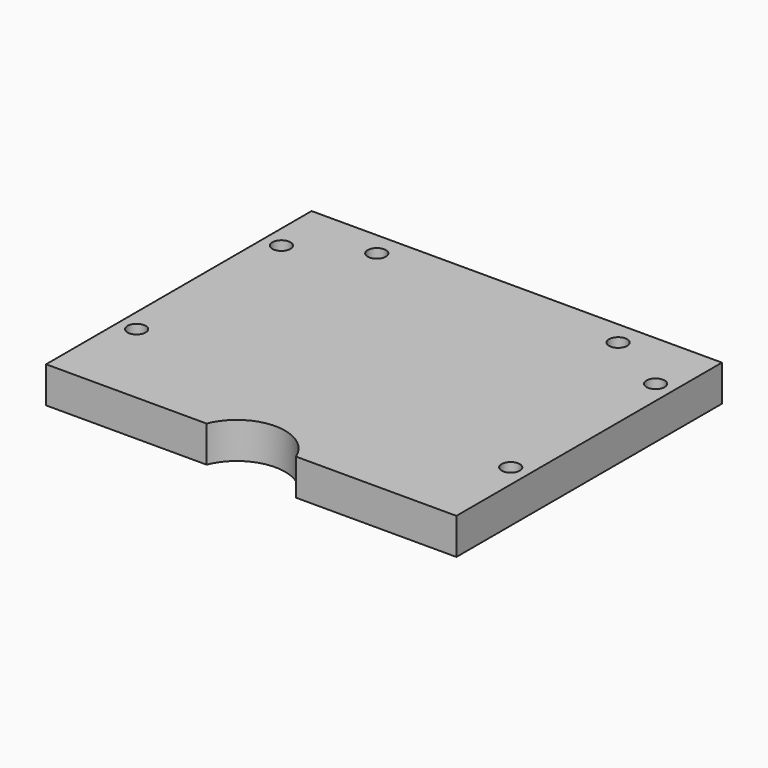
from build123d import *

# Parameters (mm, degrees)
CYLINDER2051_R               = 1.5
CYLINDER2051_DEPTH           = 50
CYLINDER2051_PLACEMENT_ANGLE = 45
CYLINDER2052_R               = 1.5
CYLINDER2052_DEPTH           = 50
CYLINDER2052_PLACEMENT_ANGLE = 45
CYLINDER2050_R               = 1.5
CYLINDER2050_DEPTH           = 50
CYLINDER2050_PLACEMENT_ANGLE = 45
CYLINDER2049_R               = 1.5
CYLINDER2049_DEPTH           = 50
CYLINDER2049_PLACEMENT_ANGLE = 45
CYLINDER2062_R               = 1.5
CYLINDER2062_DEPTH           = 50
CYLINDER2062_PLACEMENT_ANGLE = 45
CYLINDER2069_R               = 1.5
CYLINDER2069_DEPTH           = 50
CYLINDER2069_PLACEMENT_ANGLE = 45
CYLINDER2085_R               = 3
CYLINDER2085_DEPTH           = 3
CYLINDER2085_PLACEMENT_ANGLE = 45
CYLINDER2081_R               = 3
CYLINDER2081_DEPTH           = 3
CYLINDER2081_PLACEMENT_ANGLE = 45
CYLINDER2091_R               = 3
CYLINDER2091_DEPTH           = 3
CYLINDER2091_PLACEMENT_ANGLE = 45
CYLINDER2067_R               = 3
CYLINDER2067_DEPTH           = 3
CYLINDER2067_PLACEMENT_ANGLE = 45
CYLINDER2080_R               = 3
CYLINDER2080_DEPTH           = 3
CYLINDER2080_PLACEMENT_ANGLE = 45
CYLINDER2088_R               = 3
CYLINDER2088_DEPTH           = 3
CYLINDER2088_PLACEMENT_ANGLE = 45
CYLINDER2061_R               = 8
CYLINDER2061_DEPTH           = 6
BOX802_W                     = 68
BOX802_H                     = 55
BOX802_DEPTH                 = 6


with BuildPart() as obj1:
    # Cylinder2051 → Cylinder2051 (new body)
    with BuildSketch(Plane.XY):
        Circle(CYLINDER2051_R)
    extrude(amount=CYLINDER2051_DEPTH)


with BuildPart() as obj1_1:
    # Cylinder2051 placement: moved
    add(obj1.part.moved(Location((20, 137, 0))).rotate(Axis((20, 137, 0), (0, 0, 1)), CYLINDER2051_PLACEMENT_ANGLE))


with BuildPart() as compound961:
    # Cylinder2052 → Cylinder2052 (new body)
    with BuildSketch(Plane.XY):
        Circle(CYLINDER2052_R)
    extrude(amount=CYLINDER2052_DEPTH)


with BuildPart() as compound961_1:
    # Cylinder2052 placement: moved
    add(compound961.part.moved(Location((-20, 137, 0))).rotate(Axis((-20, 137, 0), (0, 0, 1)), CYLINDER2052_PLACEMENT_ANGLE))

    # Compound961: union obj1
    add(obj1_1.part)


with BuildPart() as obj2:
    # Cylinder2050 → Cylinder2050 (new body)
    with BuildSketch(Plane.XY):
        Circle(CYLINDER2050_R)
    extrude(amount=CYLINDER2050_DEPTH)


with BuildPart() as obj2_1:
    # Cylinder2050 placement: moved
    add(obj2.part.moved(Location((31, 131, 0))).rotate(Axis((31, 131, 0), (0, 0, 1)), CYLINDER2050_PLACEMENT_ANGLE))


with BuildPart() as compound964:
    # Cylinder2049 → Cylinder2049 (new body)
    with BuildSketch(Plane.XY):
        Circle(CYLINDER2049_R)
    extrude(amount=CYLINDER2049_DEPTH)


with BuildPart() as compound964_1:
    # Cylinder2049 placement: moved
    add(compound964.part.moved(Location((-31, 131, 0))).rotate(Axis((-31, 131, 0), (0, 0, 1)), CYLINDER2049_PLACEMENT_ANGLE))

    # Compound964: union obj2
    add(obj2_1.part)


with BuildPart() as obj3:
    # Cylinder2062 → Cylinder2062 (new body)
    with BuildSketch(Plane.XY):
        Circle(CYLINDER2062_R)
    extrude(amount=CYLINDER2062_DEPTH)


with BuildPart() as obj3_1:
    # Cylinder2062 placement: moved
    add(obj3.part.moved(Location((31, 101, 0))).rotate(Axis((31, 101, 0), (0, 0, 1)), CYLINDER2062_PLACEMENT_ANGLE))


with BuildPart() as compound1109:
    # Cylinder2069 → Cylinder2069 (new body)
    with BuildSketch(Plane.XY):
        Circle(CYLINDER2069_R)
    extrude(amount=CYLINDER2069_DEPTH)


with BuildPart() as compound1109_1:
    # Cylinder2069 placement: moved
    add(compound1109.part.moved(Location((-31, 101, 0))).rotate(Axis((-31, 101, 0), (0, 0, 1)), CYLINDER2069_PLACEMENT_ANGLE))

    # Compound1090: union obj3
    add(obj3_1.part)

    # Compound1109: union Compound961, Compound964
    add(compound961_1.part)
    add(compound964_1.part)


with BuildPart() as obj4:
    # Cylinder2085 → Cylinder2085 (new body)
    with BuildSketch(Plane.XY):
        Circle(CYLINDER2085_R)
    extrude(amount=CYLINDER2085_DEPTH)


with BuildPart() as obj4_1:
    # Cylinder2085 placement: moved
    add(obj4.part.moved(Location((31, 131, 0))).rotate(Axis((31, 131, 0), (0, 0, 1)), CYLINDER2085_PLACEMENT_ANGLE))


with BuildPart() as compound1101:
    # Cylinder2081 → Cylinder2081 (new body)
    with BuildSketch(Plane.XY):
        Circle(CYLINDER2081_R)
    extrude(amount=CYLINDER2081_DEPTH)


with BuildPart() as compound1101_1:
    # Cylinder2081 placement: moved
    add(compound1101.part.moved(Location((-31, 131, 0))).rotate(Axis((-31, 131, 0), (0, 0, 1)), CYLINDER2081_PLACEMENT_ANGLE))

    # Compound1101: union obj4
    add(obj4_1.part)


with BuildPart() as compound1101_2:
    # Compound1101 placement: moved
    add(compound1101_1.part.moved(Location((0, 0, 25))))


with BuildPart() as obj5:
    # Cylinder2091 → Cylinder2091 (new body)
    with BuildSketch(Plane.XY):
        Circle(CYLINDER2091_R)
    extrude(amount=CYLINDER2091_DEPTH)


with BuildPart() as obj5_1:
    # Cylinder2091 placement: moved
    add(obj5.part.moved(Location((31, 101, 0))).rotate(Axis((31, 101, 0), (0, 0, 1)), CYLINDER2091_PLACEMENT_ANGLE))


with BuildPart() as compound1103:
    # Cylinder2067 → Cylinder2067 (new body)
    with BuildSketch(Plane.XY):
        Circle(CYLINDER2067_R)
    extrude(amount=CYLINDER2067_DEPTH)


with BuildPart() as compound1103_1:
    # Cylinder2067 placement: moved
    add(compound1103.part.moved(Location((-31, 101, 0))).rotate(Axis((-31, 101, 0), (0, 0, 1)), CYLINDER2067_PLACEMENT_ANGLE))

    # Compound1103: union obj5
    add(obj5_1.part)


with BuildPart() as compound1103_2:
    # Compound1103 placement: moved
    add(compound1103_1.part.moved(Location((0, 0, 21))))


with BuildPart() as obj6:
    # Cylinder2080 → Cylinder2080 (new body)
    with BuildSketch(Plane.XY):
        Circle(CYLINDER2080_R)
    extrude(amount=CYLINDER2080_DEPTH)


with BuildPart() as obj6_1:
    # Cylinder2080 placement: moved
    add(obj6.part.moved(Location((20, 137, 0))).rotate(Axis((20, 137, 0), (0, 0, 1)), CYLINDER2080_PLACEMENT_ANGLE))


with BuildPart() as compound1106:
    # Cylinder2088 → Cylinder2088 (new body)
    with BuildSketch(Plane.XY):
        Circle(CYLINDER2088_R)
    extrude(amount=CYLINDER2088_DEPTH)


with BuildPart() as compound1106_1:
    # Cylinder2088 placement: moved
    add(compound1106.part.moved(Location((-20, 137, 0))).rotate(Axis((-20, 137, 0), (0, 0, 1)), CYLINDER2088_PLACEMENT_ANGLE))

    # Compound1104: union obj6
    add(obj6_1.part)


with BuildPart() as compound1106_2:
    # Compound1104 placement: moved
    add(compound1106_1.part.moved(Location((0, 0, 25))))

    # Compound1106: union Compound1101, Compound1103
    add(compound1101_2.part)
    add(compound1103_2.part)


with BuildPart() as obj7:
    # Cylinder2061 → Cylinder2061 (new body)
    with BuildSketch(Plane(origin=(0, 83, 25), x_dir=(1, 0, 0), z_dir=(0, 0, 1))):
        Circle(CYLINDER2061_R)
    extrude(amount=CYLINDER2061_DEPTH)


with BuildPart() as cut698:
    # Box802 → Box802 (new body)
    with BuildSketch(Plane(origin=(-34, 86, 25), x_dir=(1, 0, 0), z_dir=(0, 0, 1))):
        with Locations((34, 27.5)):
            Rectangle(BOX802_W, BOX802_H)
    extrude(amount=BOX802_DEPTH)

    # Cut692: cut obj7
    add(obj7.part, mode=Mode.SUBTRACT)

    # Cut696: cut Compound1106
    add(compound1106_2.part, mode=Mode.SUBTRACT)

    # Cut698: cut Compound1109
    add(compound1109_1.part, mode=Mode.SUBTRACT)


solid = cut698.part
